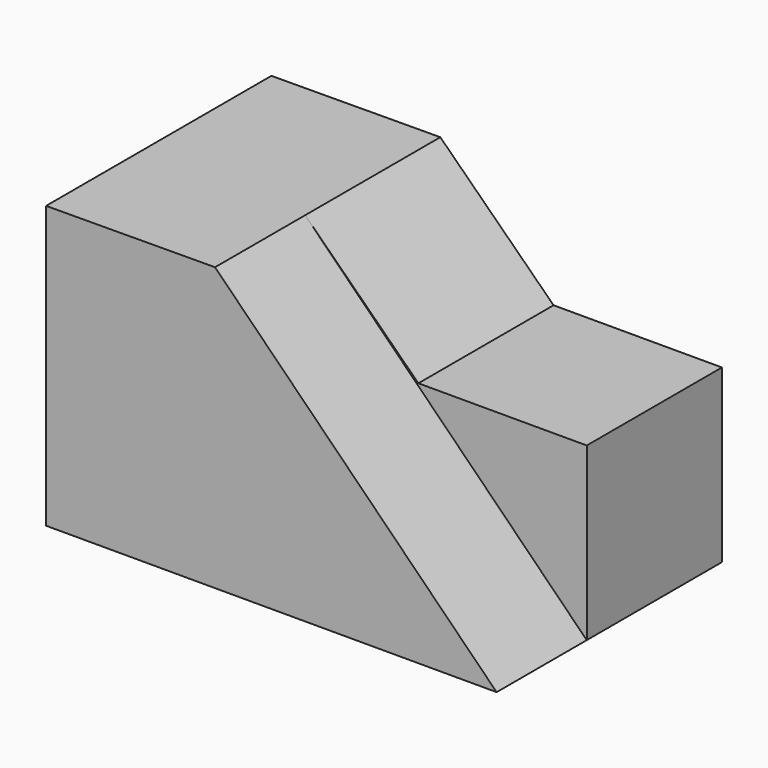
from build123d import *

# Parameters (mm, degrees)
F1_DEPTH = 31.75
F4_DEPTH = 12.7
F6_DEPTH = 31.75
F8_DEPTH = 31.75


with BuildPart() as f1:
    # F0 (on Front) → F1 (new body)
    with BuildSketch(Plane.XZ):
        Polygon((21.38658, 32.024891), (-29.41342, 31.75), (-29.41342, 0), (21.38658, 0), align=None)
    extrude(amount=F1_DEPTH)

    # F2 (on face) → F4 (cut)
    with BuildSketch(Plane.XZ.offset(31.75)):
        Polygon((21.38658, 32.024891), (-10.36342, 31.853084), (21.38658, 0), align=None)
    extrude(amount=-F4_DEPTH, mode=Mode.SUBTRACT)

    # F5 (on face) → F6 (cut)
    with BuildSketch(Plane(origin=(0, 0, 0), x_dir=(-1, 0, 0), z_dir=(0, 1, 0))):
        Polygon((-21.38658, 32.024891), (-21.38658, 19.325077), (-2.405302, 19.325077), (-2.337138, 31.92181), align=None)
    extrude(amount=-F6_DEPTH, mode=Mode.SUBTRACT)

    # F7 (on face) → F8 (cut)
    with BuildSketch(Plane.XZ.offset(19.05)):
        Polygon((2.337138, 31.92181), (-10.36342, 31.853084), (2.405302, 19.325077), align=None)
    extrude(amount=-F8_DEPTH, mode=Mode.SUBTRACT)


solid = f1.part
